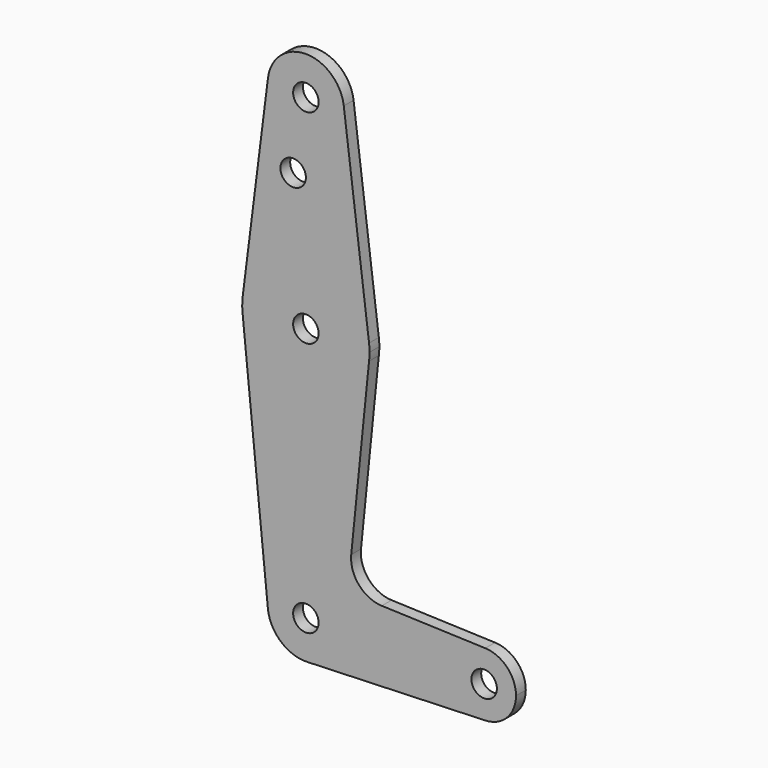
from build123d import *

# Parameters (mm, degrees)
F1_R     = 3.175
F2_DEPTH = 3.048


with BuildPart() as f2:
    # F1 (on Front) → F2 (new body)
    with BuildSketch(Plane.XZ):
        with BuildLine():
            ThreePointArc((15.750488, 61.515625), (-0.199705, 47.626256), (-15.795426, 61.9125))
            Line((-15.795426, 61.9125), (-9.477255, -0.9525))
            ThreePointArc((-9.477255, -0.9525), (-0.476848, 9.513056), (9.525, 0))
            ThreePointArc((9.525, 0), (6.854408, -6.613827), (0.340179, -9.518923))
            Line((0.340179, -9.518923), (44.733482, -7.932436))
            ThreePointArc((44.733482, -7.932436), (36.5125, -0.000539), (44.732405, 7.932475))
            Line((44.732405, 7.932475), (18.93275, 8.850972))
            ThreePointArc((18.93275, 8.850972), (13.22382, 11.570799), (11.305809, 17.596624))
            Line((11.305809, 17.596624), (15.750488, 61.515625))
        make_face()
        with BuildLine():
            ThreePointArc((15.875, 63.5), (15.843841, 64.494139), (15.750488, 65.484375))
            ThreePointArc((15.750488, 65.484375), (0, 79.375), (-15.750488, 65.484375))
            ThreePointArc((-15.750488, 65.484375), (-15.873744, 63.699705), (-15.795426, 61.9125))
            ThreePointArc((-15.795426, 61.9125), (-0.199705, 47.626256), (15.750488, 61.515625))
            ThreePointArc((15.750488, 61.515625), (15.843841, 62.505861), (15.875, 63.5))
        make_face()
        with Locations((0, 63.5)):
            Circle(F1_R, mode=Mode.SUBTRACT)
        with BuildLine():
            ThreePointArc((9.450293, 115.490625), (9.506305, 114.896483), (9.525, 114.3))
            ThreePointArc((9.525, 114.3), (-0.596483, 104.793695), (-9.450293, 115.490625))
            Line((-9.450293, 115.490625), (-15.750488, 65.484375))
            ThreePointArc((-15.750488, 65.484375), (0, 79.375), (15.750488, 65.484375))
            Line((15.750488, 65.484375), (9.450293, 115.490625))
        make_face()
        with Locations((-3.175, 96.698723)):
            Circle(F1_R, mode=Mode.SUBTRACT)
        with BuildLine():
            ThreePointArc((-9.450293, 115.490625), (-0.596483, 104.793695), (9.525, 114.3))
            ThreePointArc((9.525, 114.3), (9.506305, 114.896483), (9.450293, 115.490625))
            ThreePointArc((9.450293, 115.490625), (0, 123.825), (-9.450293, 115.490625))
        make_face()
        with Locations((0, 114.3)):
            Circle(F1_R, mode=Mode.SUBTRACT)
        with BuildLine():
            ThreePointArc((9.525, 0), (-0.476848, 9.513056), (-9.477255, -0.9525))
            ThreePointArc((-9.477255, -0.9525), (-6.262383, -7.17692), (0.340179, -9.518923))
            ThreePointArc((0.340179, -9.518923), (6.854408, -6.613827), (9.525, 0))
        make_face()
        Circle(F1_R, mode=Mode.SUBTRACT)
        with BuildLine():
            ThreePointArc((44.732405, 7.932475), (36.5125, -0.000539), (44.733482, -7.932436))
            ThreePointArc((44.733482, -7.932436), (50.162007, -5.511523), (52.3875, 0))
            ThreePointArc((52.3875, 0), (50.161633, 5.51191), (44.732405, 7.932475))
        make_face()
        with Locations((44.45, 0)):
            Circle(F1_R, mode=Mode.SUBTRACT)
    extrude(amount=F2_DEPTH)


solid = f2.part
